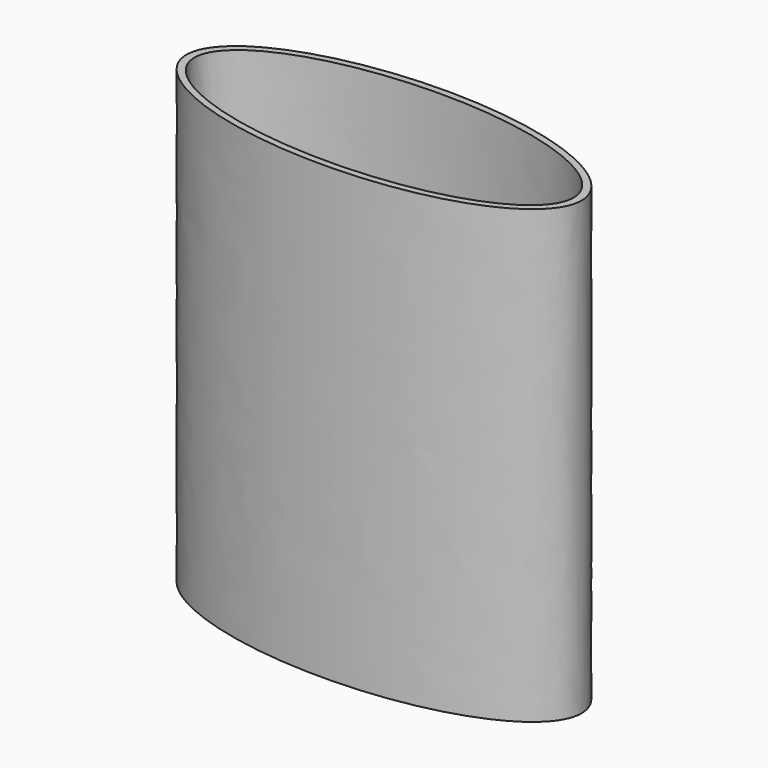
from build123d import *

# Parameters (mm, degrees)
F1_DEPTH = 100
F3_DEPTH = 100.001


with BuildPart() as f1:
    # F0 (on Top) → F1 (new body)
    with BuildSketch(Plane.XY):
        with BuildLine():
            add(Edge.make_bspline(
                [(43.75, 0), (43.75, 30.310889), (-21.875, 15.155445), (-87.5, 0), (-21.875, -15.155445), (43.75, -30.310889), (43.75, 0)],
                knots=[0, 0, 0, 2.094395, 2.094395, 4.18879, 4.18879, 6.283185, 6.283185, 6.283185], degree=2, weights=[1, 0.5, 1, 0.5, 1, 0.5, 1]))
        make_face()
    extrude(amount=F1_DEPTH)

    # F2 (on face) → F3 (cut, through all)
    with BuildSketch(Plane.XY.offset(100)):
        with BuildLine():
            add(Edge.make_bspline(
                [(-42, 0), (-42, -27.712813), (21, -13.856406), (84, 0), (21, 13.856406), (-42, 27.712813), (-42, 0)],
                knots=[0, 0, 0, 2.094395, 2.094395, 4.18879, 4.18879, 6.283185, 6.283185, 6.283185], degree=2, weights=[1, 0.5, 1, 0.5, 1, 0.5, 1]))
        make_face()
    extrude(amount=-F3_DEPTH, mode=Mode.SUBTRACT)


solid = f1.part
